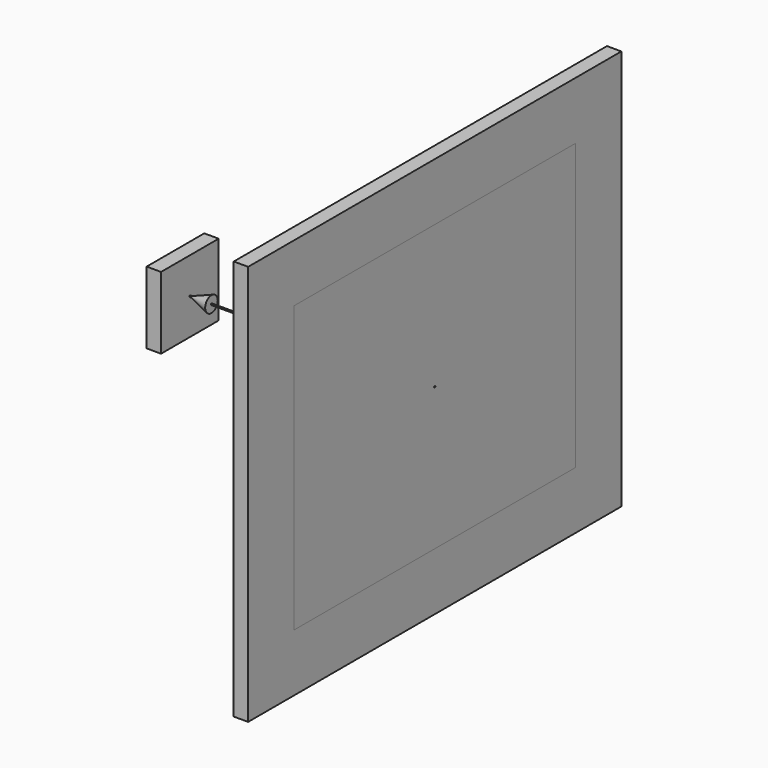
from build123d import *

# Parameters (mm, degrees)
F0_W      = 700
F0_H      = 700
F1_DEPTH  = 70
F2_R      = 285.1890902305
F3_DEPTH  = 10
F4_R      = 219.196638876
F5_DEPTH  = 25
F6_R      = 146.5573641712
F7_DEPTH  = 25
F9_W      = 50
F9_H      = 50
F10_DEPTH = 10
F11_R     = 0.5
F12_DEPTH = 160
F13_SIZE  = 5
F14_R     = 2
F18_W     = 243.84
F18_H     = 198.12
F18_R     = 0.5
F19_DEPTH = 10
F20_W     = 323.84
F20_H     = 278.12
F20_W_2   = 243.84
F20_H_2   = 198.12
F21_DEPTH = 10


with BuildPart() as f1:
    # F0 (on Top) → F1 (new body)
    with BuildSketch(Plane.XY):
        Rectangle(F0_W, F0_H)
    extrude(amount=-F1_DEPTH)

    # F2 (on face) → F3 (join)
    with BuildSketch(Plane.XY):
        Circle(F2_R)
    extrude(amount=F3_DEPTH)

    # F4 (on face) → F5 (join)
    with BuildSketch(Plane.XY.offset(10)):
        Circle(F4_R)
    extrude(amount=F5_DEPTH)

    # F6 (on face) → F7 (join)
    with BuildSketch(Plane.XY.offset(35)):
        Circle(F6_R)
    extrude(amount=F7_DEPTH)

    # F13
    f13_edges = [f1.edges().sort_by_distance(p)[0] for p in [
        (-146.557364, 0, 60),
        (-219.196639, 0, 35),
        (-285.18909, 0, 10),
    ]]
    chamfer(f13_edges, length=F13_SIZE)

    # F14
    f14_edges = [f1.edges().sort_by_distance(p)[0] for p in [
        (0, -350, 0),
        (0, 350, 0),
        (350, 0, 0),
        (-350, 0, 0),
        (-285.18909, 0, 0),
    ]]
    fillet(f14_edges, radius=F14_R)


with BuildPart() as f10:
    # F9 (on offset) → F10 (new body)
    with BuildSketch(Plane.YZ.offset(-250)):
        with Locations((0, 300)):
            Rectangle(F9_W, F9_H)
    extrude(amount=-F10_DEPTH)

    # F11 (on face) → F12 (join)
    with BuildSketch(Plane.YZ.offset(-250)):
        with Locations((0, 300)):
            Circle(F11_R)
    extrude(amount=F12_DEPTH)

    # F15 (on Front) → F16 (revolve)
    with BuildSketch(Plane.XZ):
        Polygon((-235, 305.459553514), (-250, 300), (-235, 300), align=None)
    revolve(axis=Axis((-242.5, 0, 300), (-1, 0, 0)))


with BuildPart() as f19:
    # F18 (on face) → F19 (new body)
    with BuildSketch(Plane.YZ.offset(-90)):
        with Locations((0, 300)):
            Rectangle(F18_W, F18_H)
        with Locations((0, 300)):
            Circle(F18_R, mode=Mode.SUBTRACT)
    extrude(amount=F19_DEPTH)


with BuildPart() as f21:
    # F20 (on face) → F21 (new body, through all)
    with BuildSketch(Plane.YZ.offset(-80)):
        with Locations((0, 300)):
            Rectangle(F20_W, F20_H)
        with Locations((0, 300)):
            Rectangle(F20_W_2, F20_H_2, mode=Mode.SUBTRACT)
    extrude(amount=-F21_DEPTH)


solid = Compound([f10.part, f19.part, f21.part])
